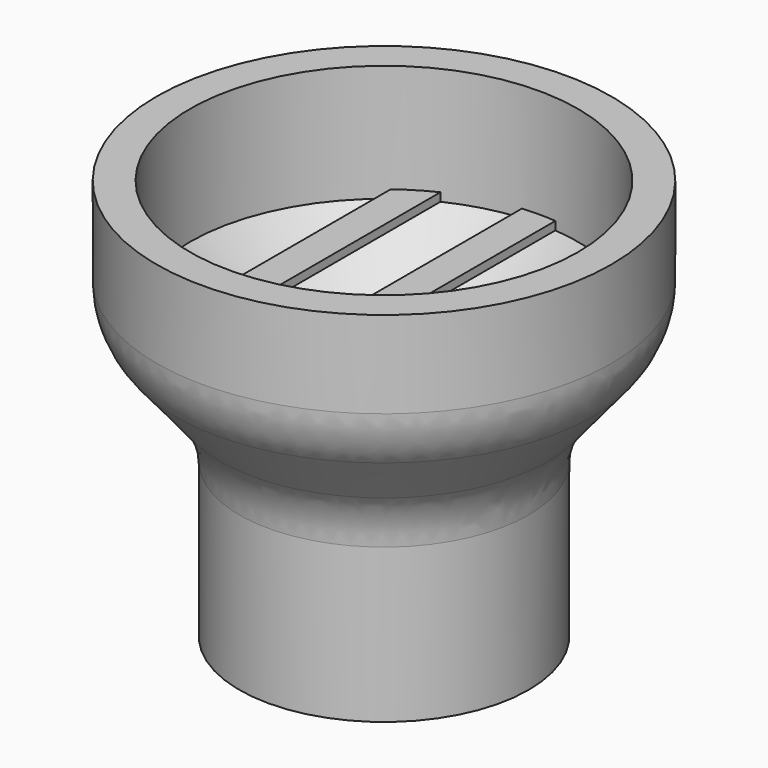
from build123d import *

# Parameters (mm, degrees)
F0_R     = 8.65
F0_R_2   = 6.65
F1_DEPTH = 11
F3_R     = 13.6
F3_R_2   = 11.6
F4_DEPTH = 7
F8_DEPTH = 0.5
F10_R    = 5


with BuildPart() as f1:
    # F0 (on Top) → F1 (new body)
    with BuildSketch(Plane.XY):
        Circle(F0_R)
        Circle(F0_R_2, mode=Mode.SUBTRACT)
    extrude(amount=F1_DEPTH)


with BuildPart() as f4:
    # F3 (on offset) → F4 (new body)
    with BuildSketch(Plane.XY.offset(17)):
        Circle(F3_R)
        Circle(F3_R_2, mode=Mode.SUBTRACT)
    extrude(amount=F4_DEPTH)


with BuildPart() as f6:
    # F5 (on Front) → F6 (revolve)
    with BuildSketch(Plane.XZ):
        Polygon((11.6, 17), (6.65, 11), (8.65, 11), (13.6, 17), align=None)
    revolve(axis=Axis((0, 0, 14), (0, 0, 1)))


with BuildPart() as f8:
    # F7 (on offset) → F8 (new body)
    with BuildSketch(Plane.XY.offset(17)):
        with BuildLine():
            Line((-5, -11.018621), (-5, 11.018621))
            ThreePointArc((-5, 11.018621), (-6.02744, 10.4919), (-7, 9.86965))
            Line((-7, 9.86965), (-7, -9.86965))
            ThreePointArc((-7, -9.86965), (-6.02744, -10.4919), (-5, -11.018621))
        make_face()
        with BuildLine():
            Line((1, -12.058607), (1, 12.058607))
            ThreePointArc((1, 12.058607), (0.500428, 12.089647), (0, 12.1))
            Line((0, 12.1), (0, 0))
            Line((0, 0), (0, -12.1))
            ThreePointArc((0, -12.1), (0.500428, -12.089647), (1, -12.058607))
        make_face()
        with BuildLine():
            Line((0, 0), (0, 12.1))
            ThreePointArc((0, 12.1), (-0.500428, 12.089647), (-1, 12.058607))
            Line((-1, 12.058607), (-1, -12.058607))
            ThreePointArc((-1, -12.058607), (-0.500428, -12.089647), (0, -12.1))
            Line((0, -12.1), (0, 0))
        make_face()
        with BuildLine():
            Line((7, -9.86965), (7, 9.86965))
            ThreePointArc((7, 9.86965), (6.02744, 10.4919), (5, 11.018621))
            Line((5, 11.018621), (5, -11.018621))
            ThreePointArc((5, -11.018621), (6.02744, -10.4919), (7, -9.86965))
        make_face()
    extrude(amount=F8_DEPTH)


with BuildPart() as f1_1:
    add(f1.part)

    # F9: union F6, F4, F8
    add(f6.part)
    add(f4.part)
    add(f8.part)

    # F10
    f10_edges = [f1_1.edges().sort_by_distance(p)[0] for p in [
        (-8.65, 0, 11),
        (-13.6, 0, 17),
    ]]
    fillet(f10_edges, radius=F10_R)


solid = f1_1.part
